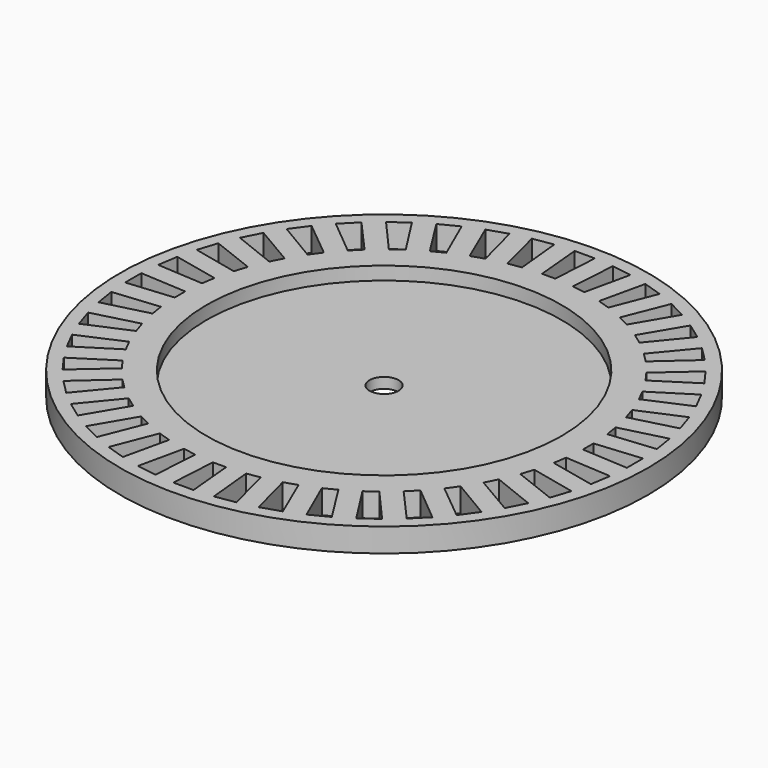
from build123d import *

# Parameters (mm, degrees)
F0_R     = 20
F0_R_2   = 13.45
F1_DEPTH = 1.8
F0_R_3   = 1.1
F2_DEPTH = 0.8


with BuildPart() as f1:
    # F0 (on Top) → F1 (new body)
    with BuildSketch(Plane.XY):
        Circle(F0_R)
        Polygon((-10.553413, -15.827023), (-11.791209, -14.927711), (-9.571323, -12.221773), (-8.762306, -12.809558), align=None, mode=Mode.SUBTRACT)
        Polygon((-14.927711, -11.791209), (-15.827023, -10.553413), (-12.879604, -8.665895), (-12.291819, -9.474912), align=None, mode=Mode.SUBTRACT)
        Polygon((-12.899375, -13.981248), (-13.981248, -12.899375), (-11.365391, -10.574017), (-10.658284, -11.281124), align=None, mode=Mode.SUBTRACT)
        Polygon((-7.947591, -17.283083), (-9.310831, -16.588478), (-7.541578, -13.568587), (-6.650571, -14.022578), align=None, mode=Mode.SUBTRACT)
        Polygon((-5.146073, -18.313577), (-6.60119, -17.840781), (-5.326134, -14.581298), (-4.375077, -14.890315), align=None, mode=Mode.SUBTRACT)
        Polygon((-2.217842, -18.89313), (-3.729005, -18.653785), (-2.979543, -15.234969), (-1.991854, -15.391403), align=None, mode=Mode.SUBTRACT)
        Polygon((-16.588478, -9.310831), (-17.283083, -7.947591), (-14.07668, -6.544389), (-13.622689, -7.435396), align=None, mode=Mode.SUBTRACT)
        Polygon((-17.840781, -6.60119), (-18.313577, -5.146073), (-14.927141, -4.261739), (-14.618124, -5.212796), align=None, mode=Mode.SUBTRACT)
        Polygon((-18.653785, -3.729005), (-18.89313, -2.217842), (-15.410046, -1.874151), (-15.253611, -2.861839), align=None, mode=Mode.SUBTRACT)
        Polygon((0.765, -19.007471), (-0.765, -19.007471), (-0.559585, -15.513504), (0.440415, -15.513504), align=None, mode=Mode.SUBTRACT)
        Polygon((3.729005, -18.653785), (2.217842, -18.89313), (1.874151, -15.410046), (2.861839, -15.253611), align=None, mode=Mode.SUBTRACT)
        Polygon((6.60119, -17.840781), (5.146073, -18.313577), (4.261739, -14.927141), (5.212796, -14.618124), align=None, mode=Mode.SUBTRACT)
        Polygon((9.310831, -16.588478), (7.947591, -17.283083), (6.544389, -14.07668), (7.435396, -13.622689), align=None, mode=Mode.SUBTRACT)
        Polygon((11.791209, -14.927711), (10.553413, -15.827023), (8.665895, -12.879604), (9.474912, -12.291819), align=None, mode=Mode.SUBTRACT)
        Polygon((13.981248, -12.899375), (12.899375, -13.981248), (10.574017, -11.365391), (11.281124, -10.658284), align=None, mode=Mode.SUBTRACT)
        Polygon((15.827023, -10.553413), (14.927711, -11.791209), (12.221773, -9.571323), (12.809558, -8.762306), align=None, mode=Mode.SUBTRACT)
        Polygon((17.283083, -7.947591), (16.588478, -9.310831), (13.568587, -7.541578), (14.022578, -6.650571), align=None, mode=Mode.SUBTRACT)
        Polygon((18.313577, -5.146073), (17.840781, -6.60119), (14.581298, -5.326134), (14.890315, -4.375077), align=None, mode=Mode.SUBTRACT)
        Polygon((18.89313, -2.217842), (18.653785, -3.729005), (15.234969, -2.979543), (15.391403, -1.991854), align=None, mode=Mode.SUBTRACT)
        Polygon((-19.007471, -0.765), (-19.007471, 0.765), (-15.513504, 0.559585), (-15.513504, -0.440415), align=None, mode=Mode.SUBTRACT)
        Polygon((-18.89313, 2.217842), (-18.653785, 3.729005), (-15.234969, 2.979543), (-15.391403, 1.991854), align=None, mode=Mode.SUBTRACT)
        Polygon((-18.313577, 5.146073), (-17.840781, 6.60119), (-14.581298, 5.326134), (-14.890315, 4.375077), align=None, mode=Mode.SUBTRACT)
        Polygon((-17.283083, 7.947591), (-16.588478, 9.310831), (-13.568587, 7.541578), (-14.022578, 6.650571), align=None, mode=Mode.SUBTRACT)
        Polygon((-15.827023, 10.553413), (-14.927711, 11.791209), (-12.221773, 9.571323), (-12.809558, 8.762306), align=None, mode=Mode.SUBTRACT)
        Polygon((-13.981248, 12.899375), (-12.899375, 13.981248), (-10.574017, 11.365391), (-11.281124, 10.658284), align=None, mode=Mode.SUBTRACT)
        Polygon((-11.791209, 14.927711), (-10.553413, 15.827023), (-8.665895, 12.879604), (-9.474912, 12.291819), align=None, mode=Mode.SUBTRACT)
        Polygon((-9.310831, 16.588478), (-7.947591, 17.283083), (-6.544389, 14.07668), (-7.435396, 13.622689), align=None, mode=Mode.SUBTRACT)
        Polygon((-6.60119, 17.840781), (-5.146073, 18.313577), (-4.261739, 14.927141), (-5.212796, 14.618124), align=None, mode=Mode.SUBTRACT)
        Polygon((-3.729005, 18.653785), (-2.217842, 18.89313), (-1.874151, 15.410046), (-2.861839, 15.253611), align=None, mode=Mode.SUBTRACT)
        Circle(F0_R_2, mode=Mode.SUBTRACT)
        Polygon((19.007471, 0.765), (19.007471, -0.765), (15.513504, -0.559585), (15.513504, 0.440415), align=None, mode=Mode.SUBTRACT)
        Polygon((18.653785, 3.729005), (18.89313, 2.217842), (15.410046, 1.874151), (15.253611, 2.861839), align=None, mode=Mode.SUBTRACT)
        Polygon((17.840781, 6.60119), (18.313577, 5.146073), (14.927141, 4.261739), (14.618124, 5.212796), align=None, mode=Mode.SUBTRACT)
        Polygon((16.588478, 9.310831), (17.283083, 7.947591), (14.07668, 6.544389), (13.622689, 7.435396), align=None, mode=Mode.SUBTRACT)
        Polygon((-0.765, 19.007471), (0.765, 19.007471), (0.559585, 15.513504), (-0.440415, 15.513504), align=None, mode=Mode.SUBTRACT)
        Polygon((2.217842, 18.89313), (3.729005, 18.653785), (2.979543, 15.234969), (1.991854, 15.391403), align=None, mode=Mode.SUBTRACT)
        Polygon((5.146073, 18.313577), (6.60119, 17.840781), (5.326134, 14.581298), (4.375077, 14.890315), align=None, mode=Mode.SUBTRACT)
        Polygon((7.947591, 17.283083), (9.310831, 16.588478), (7.541578, 13.568587), (6.650571, 14.022578), align=None, mode=Mode.SUBTRACT)
        Polygon((12.899375, 13.981248), (13.981248, 12.899375), (11.365391, 10.574017), (10.658284, 11.281124), align=None, mode=Mode.SUBTRACT)
        Polygon((14.927711, 11.791209), (15.827023, 10.553413), (12.879604, 8.665895), (12.291819, 9.474912), align=None, mode=Mode.SUBTRACT)
        Polygon((10.553413, 15.827023), (11.791209, 14.927711), (9.571323, 12.221773), (8.762306, 12.809558), align=None, mode=Mode.SUBTRACT)
    extrude(amount=F1_DEPTH)

    # F0 (on Top) → F2 (join)
    with BuildSketch(Plane.XY):
        Circle(F0_R_2)
        Circle(F0_R_3, mode=Mode.SUBTRACT)
    extrude(amount=F2_DEPTH)


solid = f1.part
